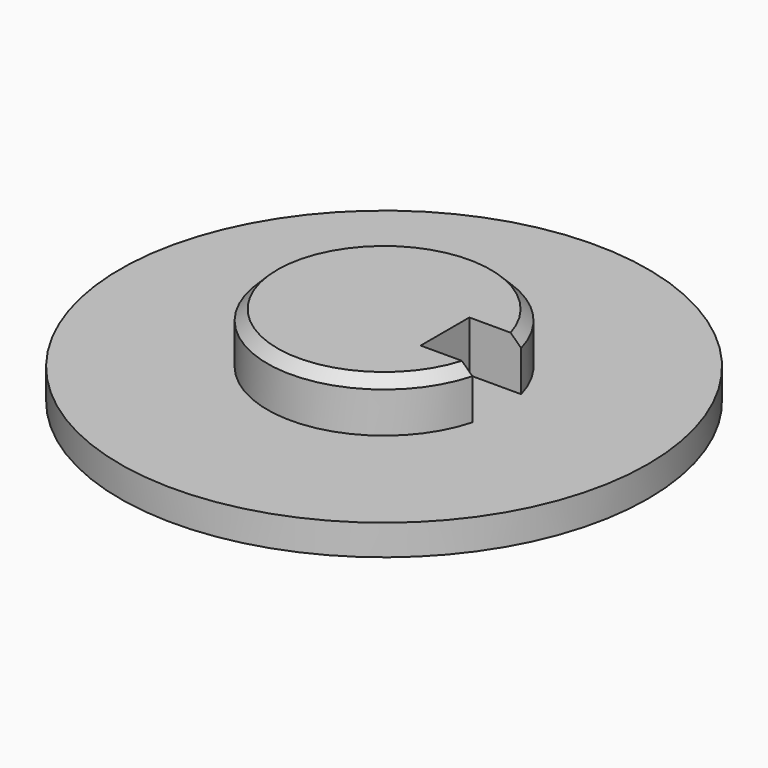
from build123d import *

# Parameters (mm, degrees)
BOX211_W                         = 6
BOX211_H                         = 6
BOX211_DEPTH                     = 5
CYLINDER014005814004018007_R     = 26
CYLINDER014005814004018007_DEPTH = 3
CYLINDER014005814004018006_R     = 11.5
CYLINDER014005814004018006_DEPTH = 7
CHAMFER_SIZE                     = 1


with BuildPart() as krychle186:
    # Box211 → Box211 (new body)
    with BuildSketch(Plane(origin=(6, -3, 2), x_dir=(1, 0, 0), z_dir=(0, 0, 1))):
        with Locations((3, 3)):
            Rectangle(BOX211_W, BOX211_H)
    extrude(amount=BOX211_DEPTH)


with BuildPart() as obj1:
    # Cylinder014005814004018007 → Cylinder014005814004018007 (new body)
    with BuildSketch(Plane.XY.offset(-1)):
        Circle(CYLINDER014005814004018007_R)
    extrude(amount=CYLINDER014005814004018007_DEPTH)


with BuildPart() as cap2:
    # Cylinder014005814004018006 → Cylinder014005814004018006 (new body)
    with BuildSketch(Plane.XY):
        Circle(CYLINDER014005814004018006_R)
    extrude(amount=CYLINDER014005814004018006_DEPTH)

    # Fusion001089091: union obj1
    add(obj1.part)

    # Cut061098126006: cut Krychle186
    add(krychle186.part, mode=Mode.SUBTRACT)

    # Chamfer
    chamfer_edges = [cap2.edges().sort_by_distance(p)[0] for p in [
        (-11.5, 0, 7),
    ]]
    chamfer(chamfer_edges, length=CHAMFER_SIZE)


solid = cap2.part
